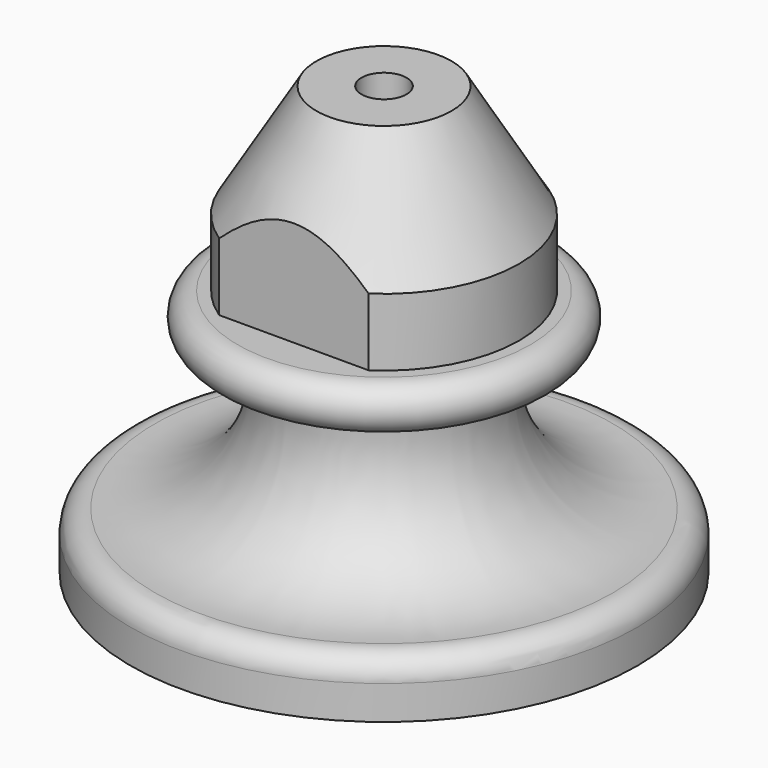
from build123d import *

# Parameters (mm, degrees)
F2_W          = 13.471012935
F2_H          = 14.7102138698
F2_W_2        = 8.109325543
F2_H_2        = 14.3289453089
F3_DEPTH      = 22.5010001
F3_DEPTH_BACK = 22.5010001


with BuildPart() as f1:
    # F0 (on Front) → F1 (revolve)
    with BuildSketch(Plane.XZ):
        with BuildLine():
            Line((19.5, 0.1050739404), (19.5, 0))
            Line((19.5, 0), (22.5, 0))
            Line((22.5, 0), (22.5, 3.0065580159))
            ThreePointArc((22.5, 3.0065580159), (21.8557911599, 4.4768744209), (20.3381696692, 5))
            ThreePointArc((20.3381696692, 5), (12.2887231396, 8.0695197192), (9.6127006031, 16.2581975199))
            ThreePointArc((9.6127006031, 16.2581975199), (10.2761904382, 17.5027300223), (11.5959640855, 18))
            Line((11.5959640855, 18), (13, 18))
            ThreePointArc((13, 18), (15, 20), (13, 22))
            Line((13, 22), (12, 22))
            Line((12, 22), (12, 28))
            Line((12, 28), (6, 38))
            Line((6, 38), (2, 38))
            Line((2, 38), (2, 25))
            Line((2, 25), (7, 25))
            Line((7, 25), (7, 11.7829078565))
            ThreePointArc((7, 11.7829078565), (7.0215240937, 11.4902765387), (7.0856330881, 11.2039438448))
            ThreePointArc((7.0856330881, 11.2039438448), (11.0907523156, 5.0780404922), (17.7705357354, 2.0866920711))
            ThreePointArc((17.7705357354, 2.0866920711), (19.0068296969, 1.4201649124), (19.5, 0.1050739404))
        make_face()
    revolve(axis=Axis((0, 0, 21.2093579986), (0, 0, 1)))

    # F2 (on Right) → F3 (cut, two sides)
    with BuildSketch(Plane.YZ) as f3_sk:
        with Locations((-16.7355064675, 29.3551069349)):
            Rectangle(F2_W, F2_H)
        with Locations((14.0546627715, 29.1644726545)):
            Rectangle(F2_W_2, F2_H_2)
    extrude(amount=-F3_DEPTH, mode=Mode.SUBTRACT)
    extrude(f3_sk.sketch, amount=F3_DEPTH_BACK, mode=Mode.SUBTRACT)


solid = f1.part
